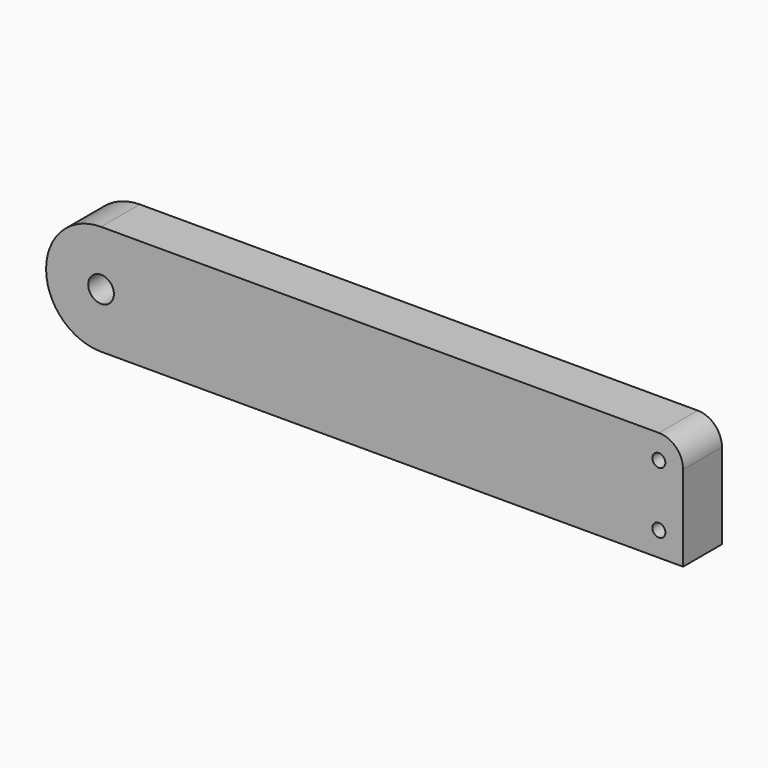
from build123d import *

# Parameters (mm, degrees)
F1_DEPTH = 19.05
F2_D     = 10.0838
F3_R     = 9.525
F5_D     = 5.1054


with BuildPart() as f1:
    # F0 (on Front) → F1 (new body)
    with BuildSketch(Plane.XZ):
        with BuildLine():
            Line((128.7268799004, 43.18), (-99.8731200996, 43.18))
            ThreePointArc((-99.8731200996, 43.18), (-121.4631200996, 21.59), (-99.8731200996, 0))
            Line((-99.8731200996, 0), (128.7268799004, 0))
            Line((128.7268799004, 0), (128.7268799004, 43.18))
        make_face()
    extrude(amount=F1_DEPTH)

    # F2 (through all)
    with Locations(Plane(origin=(0, 0, 0), x_dir=(1, 0, 0), z_dir=(0, 1, 0))):
        with Locations((-99.8731200996, -21.59)):
            Hole(F2_D / 2)

    # F3
    f3_edges = [f1.edges().sort_by_distance(p)[0] for p in [
        (128.72688, -9.525, 43.18),
    ]]
    fillet(f3_edges, radius=F3_R)

    # F5 (through all)
    with Locations(Plane.XZ.offset(19.05)):
        with Locations((119.2018799004, 33.655), (119.2018799004, 9.525)):
            Hole(F5_D / 2)


solid = f1.part
